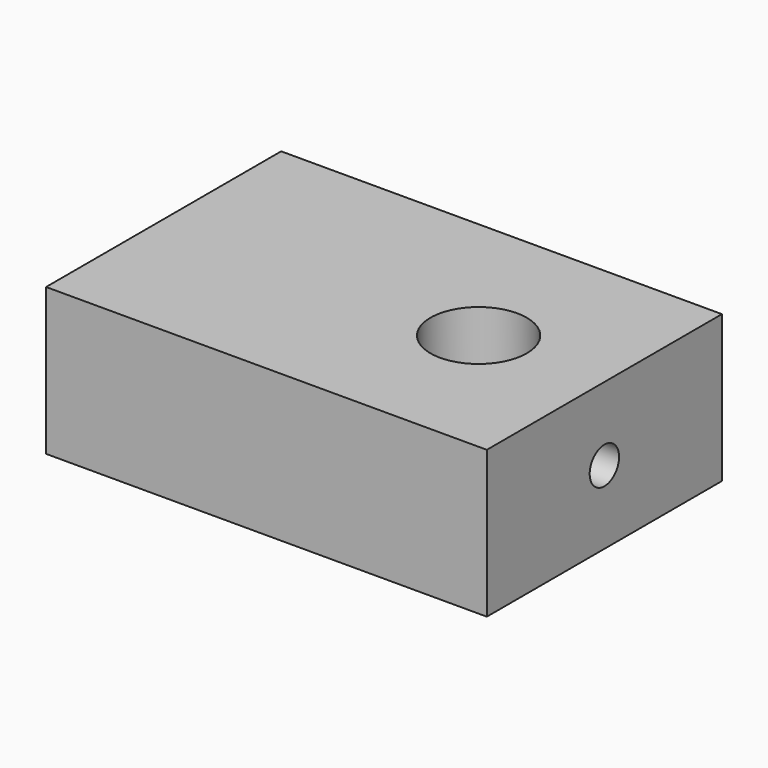
from build123d import *

# Parameters (mm, degrees)
F0_W     = 38.1
F0_H     = 25.4
F0_R     = 4.1656
F1_DEPTH = 12.7
F2_R     = 3.175
F3_DEPTH = 19.05
F4_R     = 1.5875
F5_DEPTH = 12.7


with BuildPart() as f1:
    # F0 (on Top) → F1 (new body)
    with BuildSketch(Plane.XY):
        with Locations((-8.1788, 0)):
            Rectangle(F0_W, F0_H)
        Circle(F0_R, mode=Mode.SUBTRACT)
    extrude(amount=-F1_DEPTH)

    # F2 (on face) → F3 (cut)
    with BuildSketch(Plane(origin=(-27.2288, 0, 0), x_dir=(0, -1, 0), z_dir=(-1, 0, 0))):
        with Locations((0, -6.35)):
            Circle(F2_R)
    extrude(amount=-F3_DEPTH, mode=Mode.SUBTRACT)

    # F4 (on face) → F5 (cut)
    with BuildSketch(Plane.YZ.offset(10.8712)):
        with Locations((0, -6.35)):
            Circle(F4_R)
    extrude(amount=-F5_DEPTH, mode=Mode.SUBTRACT)


solid = f1.part
